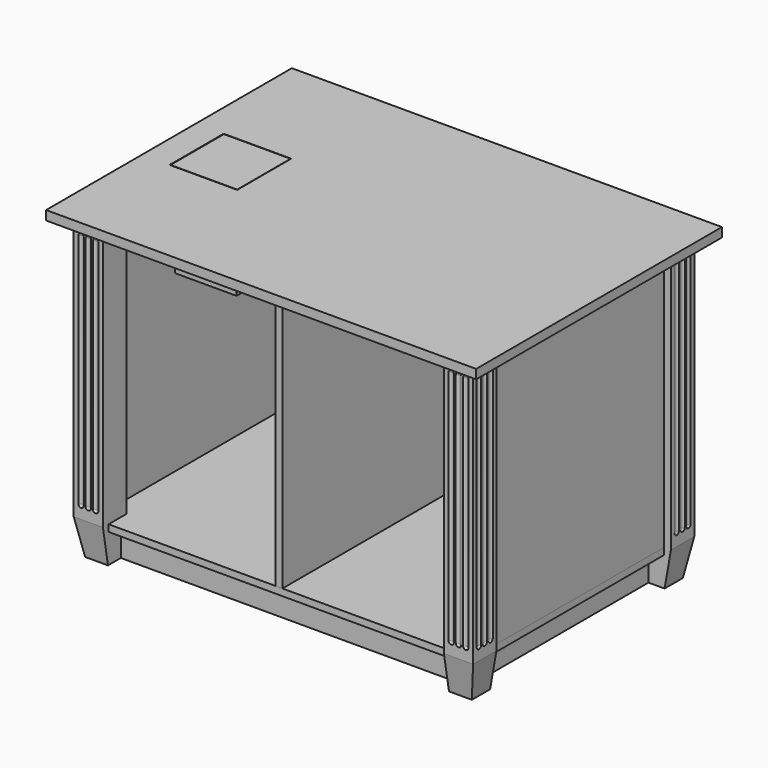
from build123d import *

# Parameters (mm, degrees)
F3_W           = 1400
F3_H           = 1000
F4_DEPTH       = 30
F5_W           = 95
F5_H           = 95
F6_DEPTH       = 970
F7_W           = 22
F7_H           = 95
F8_DEPTH       = 1110
F10_W          = 22
F10_H          = 95.0000000001
F11_DEPTH      = 710
F13_W          = 1254
F13_H          = 854
F14_DEPTH      = 22
F16_W          = 22
F16_H          = 852.9999999999
F17_DEPTH      = 710
F20_DEPTH      = 1350.001
F22_DEPTH      = 950.001
F31_ANGLE      = 90
F35_W          = 22
F35_H          = 852.9999999999
F36_DEPTH      = 427
F36_DEPTH_BACK = 427
F37_W          = 200
F37_H          = 200
F38_DEPTH      = 1000.001
F39_W          = 220
F39_H          = 220
F40_DEPTH      = 11
F41_W          = 200
F41_H          = 200
F42_DEPTH      = 300
F43_T          = -1
F44_W          = 218
F44_H          = 218
F44_W_2        = 198
F44_H_2        = 198
F45_DEPTH      = 1
F46_W          = 192
F46_H          = 192
F47_DEPTH      = 10
F48_W          = 217
F48_H          = 217
F49_DEPTH      = 10


with BuildPart() as f4:
    # F3 (on offset) → F4 (new body)
    with BuildSketch(Plane.XY.offset(1000)):
        Rectangle(F3_W, F3_H)
    extrude(amount=-F4_DEPTH)

    # F37 (on face) → F38 (cut, through all)
    with BuildSketch(Plane.XY.offset(1000)):
        with Locations((-500, 0)):
            Rectangle(F37_W, F37_H)
    extrude(amount=-F38_DEPTH, mode=Mode.SUBTRACT)

    # F39 (on face) → F40 (cut)
    with BuildSketch(Plane.XY.offset(1000)):
        with Locations((-500, 0)):
            Rectangle(F39_W, F39_H)
    extrude(amount=-F40_DEPTH, mode=Mode.SUBTRACT)


with BuildPart() as f6:
    # F5 (on Top) → F6 (new body, through all)
    with BuildSketch(Plane.XY):
        with Locations((-602.5, -402.5)):
            Rectangle(F5_W, F5_H)
    extrude(amount=F6_DEPTH)


with BuildPart() as f6b:
    # F5 (on Top) → F6, piece 2 (new body, through all)
    with BuildSketch(Plane.XY):
        with Locations((602.5, -402.5)):
            Rectangle(F5_W, F5_H)
    extrude(amount=F6_DEPTH)


with BuildPart() as f6c:
    # F5 (on Top) → F6, piece 3 (new body, through all)
    with BuildSketch(Plane.XY):
        with Locations((-602.5, 402.5)):
            Rectangle(F5_W, F5_H)
    extrude(amount=F6_DEPTH)


with BuildPart() as f6d:
    # F5 (on Top) → F6, piece 4 (new body, through all)
    with BuildSketch(Plane.XY):
        with Locations((602.5, 402.5)):
            Rectangle(F5_W, F5_H)
    extrude(amount=F6_DEPTH)


with BuildPart() as f8:
    # F7 (on face) → F8 (new body, through all)
    with BuildSketch(Plane.YZ.offset(-555)):
        with Locations((-366, 47.5)):
            Rectangle(F7_W, F7_H)
    extrude(amount=F8_DEPTH)


with BuildPart() as f9_1:
    # F9: instance of F8
    add(f8.part.mirror(Plane.XZ))


with BuildPart() as f11:
    # F10 (on face) → F11 (new body, through all)
    with BuildSketch(Plane(origin=(0, -355, 0), x_dir=(-1, 0, 0), z_dir=(0, 1, 0))):
        with Locations((-566, 47.5000000001)):
            Rectangle(F10_W, F10_H)
    extrude(amount=F11_DEPTH)


with BuildPart() as f12_1:
    # F12: instance of F11
    add(f11.part.mirror(Plane.YZ))


with BuildPart() as f14:
    # F13 (on face) → F14 (new body)
    with BuildSketch(Plane.XY.offset(95.0000000001)):
        Rectangle(F13_W, F13_H)
    extrude(amount=F14_DEPTH)

    # F15: cut F6d, F6b, F6, F6c
    add(f6d.part, mode=Mode.SUBTRACT)
    add(f6b.part, mode=Mode.SUBTRACT)
    add(f6.part, mode=Mode.SUBTRACT)
    add(f6c.part, mode=Mode.SUBTRACT)


with BuildPart() as f17:
    # F16 (on face) → F17 (new body, through all)
    with BuildSketch(Plane.XZ.offset(-355)):
        with Locations((-616, 543.5000000001)):
            Rectangle(F16_W, F16_H)
    extrude(amount=F17_DEPTH)


with BuildPart() as f18_1:
    # F18: instance of F17
    add(f17.part.mirror(Plane.YZ))


with BuildPart() as f20_tool:
    # F19 (on face) → F20 (new body, through all)
    with BuildSketch(Plane.YZ.offset(650)):
        Polygon((-424.7197430138, -26.371461841), (-450, 117.0000000001), (-510.232023478, -26.371461841), align=None)
        Polygon((573.8041042479, -58.4477885703), (450, 117.0000000001), (417.7592336329, -65.8464721481), align=None)
    extrude(amount=-F20_DEPTH)


with BuildPart() as f6_1:
    add(f6.part)

    # F20: cut by f20_tool
    add(f20_tool.part, mode=Mode.SUBTRACT)


with BuildPart() as f6b_1:
    add(f6b.part)

    # F20: cut by f20_tool
    add(f20_tool.part, mode=Mode.SUBTRACT)


with BuildPart() as f6c_1:
    add(f6c.part)

    # F20: cut by f20_tool
    add(f20_tool.part, mode=Mode.SUBTRACT)


with BuildPart() as f6d_1:
    add(f6d.part)

    # F20: cut by f20_tool
    add(f20_tool.part, mode=Mode.SUBTRACT)


with BuildPart() as f22_tool:
    # F21 (on face) → F22 (new body, through all)
    with BuildSketch(Plane(origin=(0, 450, 0), x_dir=(-1, 0, 0), z_dir=(0, 1, 0))):
        Polygon((-621.1144667896, -46.8179993462), (-650, 117.0000000001), (-744.3946939739, -46.8179993462), align=None)
        Polygon((784.7716985954, -119.4543197941), (650, 117.0000000001), (608.3067237152, -119.4543197941), align=None)
    extrude(amount=-F22_DEPTH)


with BuildPart() as f6_2:
    add(f6_1.part)

    # F22: cut by f22_tool
    add(f22_tool.part, mode=Mode.SUBTRACT)


with BuildPart() as f6b_2:
    add(f6b_1.part)

    # F22: cut by f22_tool
    add(f22_tool.part, mode=Mode.SUBTRACT)


with BuildPart() as f6c_2:
    add(f6c_1.part)

    # F22: cut by f22_tool
    add(f22_tool.part, mode=Mode.SUBTRACT)


with BuildPart() as f6d_2:
    add(f6d_1.part)

    # F22: cut by f22_tool
    add(f22_tool.part, mode=Mode.SUBTRACT)


with BuildPart() as f25:
    # F24 (on mid) → F25 (revolve)
    with BuildSketch(Plane(origin=(0, -402.5, 0), x_dir=(-1, 0, 0), z_dir=(0, 1, 0))):
        with BuildLine():
            ThreePointArc((-646, 928), (-649.5147186258, 936.4852813742), (-658, 940))
            Line((-658, 940), (-658, 147.0000000018))
            ThreePointArc((-658, 147.0000000018), (-649.5147186258, 150.5147186275), (-646, 159.0000000018))
            Line((-646, 159.0000000018), (-646, 928))
        make_face()
    revolve(axis=Axis((658, -402.5, 543.5000000009), (0, 0, -1)))


with BuildPart() as f26_1:
    # F26: copy of F25
    add(f25.part.moved(Location((0, 23.75, 0))))


with BuildPart() as f27_1:
    # F27: copy of F25
    add(f25.part.moved(Location((0, -23.75, 0))))


with BuildPart() as f28_1:
    # F28: instance of F27_1
    add(f27_1.part.mirror(Plane.XZ))


with BuildPart() as f28_2:
    # F28: instance of F25
    add(f25.part.mirror(Plane.XZ))


with BuildPart() as f28_3:
    # F28: instance of F26_1
    add(f26_1.part.mirror(Plane.XZ))


with BuildPart() as f29_1:
    # F29: instance of F27_1
    add(f27_1.part.mirror(Plane.YZ))


with BuildPart() as f29_2:
    # F29: instance of F25
    add(f25.part.mirror(Plane.YZ))


with BuildPart() as f29_3:
    # F29: instance of F26_1
    add(f26_1.part.mirror(Plane.YZ))


with BuildPart() as f29_4:
    # F29: instance of F28_3
    add(f28_3.part.mirror(Plane.YZ))


with BuildPart() as f29_5:
    # F29: instance of F28_2
    add(f28_2.part.mirror(Plane.YZ))


with BuildPart() as f29_6:
    # F29: instance of F28_1
    add(f28_1.part.mirror(Plane.YZ))


with BuildPart() as f31_1:
    # F31: copy of F27_1
    add(f27_1.part.rotate(Axis((602.5, -402.5, 462.0685577393), (0, 0, -1)), F31_ANGLE))


with BuildPart() as f31_2:
    # F31: copy of F25
    add(f25.part.rotate(Axis((602.5, -402.5, 462.0685577393), (0, 0, -1)), F31_ANGLE))


with BuildPart() as f31_3:
    # F31: copy of F26_1
    add(f26_1.part.rotate(Axis((602.5, -402.5, 462.0685577393), (0, 0, -1)), F31_ANGLE))


with BuildPart() as f32_1:
    # F32: instance of F31_1
    add(f31_1.part.mirror(Plane.YZ))


with BuildPart() as f32_2:
    # F32: instance of F31_2
    add(f31_2.part.mirror(Plane.YZ))


with BuildPart() as f32_3:
    # F32: instance of F31_3
    add(f31_3.part.mirror(Plane.YZ))


with BuildPart() as f33_1:
    # F33: instance of F32_3
    add(f32_3.part.mirror(Plane.XZ))


with BuildPart() as f33_2:
    # F33: instance of F32_2
    add(f32_2.part.mirror(Plane.XZ))


with BuildPart() as f33_3:
    # F33: instance of F32_1
    add(f32_1.part.mirror(Plane.XZ))


with BuildPart() as f33_4:
    # F33: instance of F31_1
    add(f31_1.part.mirror(Plane.XZ))


with BuildPart() as f33_5:
    # F33: instance of F31_2
    add(f31_2.part.mirror(Plane.XZ))


with BuildPart() as f33_6:
    # F33: instance of F31_3
    add(f31_3.part.mirror(Plane.XZ))


with BuildPart() as f6b_3:
    add(f6b_2.part)

    # F34: cut F32_3, F32_2, F32_1, F29_3, F29_2, F29_1, F29_6, F29_5, F29_4, F33_3, F33_2, F33_1, F33_6, F33_5, F33_4, F28_3, F28_2, F28_1, F27_1, F25, F26_1, F31_1, F31_2, F31_3
    add(f32_3.part, mode=Mode.SUBTRACT)
    add(f32_2.part, mode=Mode.SUBTRACT)
    add(f32_1.part, mode=Mode.SUBTRACT)
    add(f29_3.part, mode=Mode.SUBTRACT)
    add(f29_2.part, mode=Mode.SUBTRACT)
    add(f29_1.part, mode=Mode.SUBTRACT)
    add(f29_6.part, mode=Mode.SUBTRACT)
    add(f29_5.part, mode=Mode.SUBTRACT)
    add(f29_4.part, mode=Mode.SUBTRACT)
    add(f33_3.part, mode=Mode.SUBTRACT)
    add(f33_2.part, mode=Mode.SUBTRACT)
    add(f33_1.part, mode=Mode.SUBTRACT)
    add(f33_6.part, mode=Mode.SUBTRACT)
    add(f33_5.part, mode=Mode.SUBTRACT)
    add(f33_4.part, mode=Mode.SUBTRACT)
    add(f28_3.part, mode=Mode.SUBTRACT)
    add(f28_2.part, mode=Mode.SUBTRACT)
    add(f28_1.part, mode=Mode.SUBTRACT)
    add(f27_1.part, mode=Mode.SUBTRACT)
    add(f25.part, mode=Mode.SUBTRACT)
    add(f26_1.part, mode=Mode.SUBTRACT)
    add(f31_1.part, mode=Mode.SUBTRACT)
    add(f31_2.part, mode=Mode.SUBTRACT)
    add(f31_3.part, mode=Mode.SUBTRACT)


with BuildPart() as f6d_3:
    add(f6d_2.part)

    # F34: cut F32_3, F32_2, F32_1, F29_3, F29_2, F29_1, F29_6, F29_5, F29_4, F33_3, F33_2, F33_1, F33_6, F33_5, F33_4, F28_3, F28_2, F28_1, F27_1, F25, F26_1, F31_1, F31_2, F31_3
    add(f32_3.part, mode=Mode.SUBTRACT)
    add(f32_2.part, mode=Mode.SUBTRACT)
    add(f32_1.part, mode=Mode.SUBTRACT)
    add(f29_3.part, mode=Mode.SUBTRACT)
    add(f29_2.part, mode=Mode.SUBTRACT)
    add(f29_1.part, mode=Mode.SUBTRACT)
    add(f29_6.part, mode=Mode.SUBTRACT)
    add(f29_5.part, mode=Mode.SUBTRACT)
    add(f29_4.part, mode=Mode.SUBTRACT)
    add(f33_3.part, mode=Mode.SUBTRACT)
    add(f33_2.part, mode=Mode.SUBTRACT)
    add(f33_1.part, mode=Mode.SUBTRACT)
    add(f33_6.part, mode=Mode.SUBTRACT)
    add(f33_5.part, mode=Mode.SUBTRACT)
    add(f33_4.part, mode=Mode.SUBTRACT)
    add(f28_3.part, mode=Mode.SUBTRACT)
    add(f28_2.part, mode=Mode.SUBTRACT)
    add(f28_1.part, mode=Mode.SUBTRACT)
    add(f27_1.part, mode=Mode.SUBTRACT)
    add(f25.part, mode=Mode.SUBTRACT)
    add(f26_1.part, mode=Mode.SUBTRACT)
    add(f31_1.part, mode=Mode.SUBTRACT)
    add(f31_2.part, mode=Mode.SUBTRACT)
    add(f31_3.part, mode=Mode.SUBTRACT)


with BuildPart() as f6c_3:
    add(f6c_2.part)

    # F34: cut F32_3, F32_2, F32_1, F29_3, F29_2, F29_1, F29_6, F29_5, F29_4, F33_3, F33_2, F33_1, F33_6, F33_5, F33_4, F28_3, F28_2, F28_1, F27_1, F25, F26_1, F31_1, F31_2, F31_3
    add(f32_3.part, mode=Mode.SUBTRACT)
    add(f32_2.part, mode=Mode.SUBTRACT)
    add(f32_1.part, mode=Mode.SUBTRACT)
    add(f29_3.part, mode=Mode.SUBTRACT)
    add(f29_2.part, mode=Mode.SUBTRACT)
    add(f29_1.part, mode=Mode.SUBTRACT)
    add(f29_6.part, mode=Mode.SUBTRACT)
    add(f29_5.part, mode=Mode.SUBTRACT)
    add(f29_4.part, mode=Mode.SUBTRACT)
    add(f33_3.part, mode=Mode.SUBTRACT)
    add(f33_2.part, mode=Mode.SUBTRACT)
    add(f33_1.part, mode=Mode.SUBTRACT)
    add(f33_6.part, mode=Mode.SUBTRACT)
    add(f33_5.part, mode=Mode.SUBTRACT)
    add(f33_4.part, mode=Mode.SUBTRACT)
    add(f28_3.part, mode=Mode.SUBTRACT)
    add(f28_2.part, mode=Mode.SUBTRACT)
    add(f28_1.part, mode=Mode.SUBTRACT)
    add(f27_1.part, mode=Mode.SUBTRACT)
    add(f25.part, mode=Mode.SUBTRACT)
    add(f26_1.part, mode=Mode.SUBTRACT)
    add(f31_1.part, mode=Mode.SUBTRACT)
    add(f31_2.part, mode=Mode.SUBTRACT)
    add(f31_3.part, mode=Mode.SUBTRACT)


with BuildPart() as f6_3:
    add(f6_2.part)

    # F34: cut F32_3, F32_2, F32_1, F29_3, F29_2, F29_1, F29_6, F29_5, F29_4, F33_3, F33_2, F33_1, F33_6, F33_5, F33_4, F28_3, F28_2, F28_1, F27_1, F25, F26_1, F31_1, F31_2, F31_3
    add(f32_3.part, mode=Mode.SUBTRACT)
    add(f32_2.part, mode=Mode.SUBTRACT)
    add(f32_1.part, mode=Mode.SUBTRACT)
    add(f29_3.part, mode=Mode.SUBTRACT)
    add(f29_2.part, mode=Mode.SUBTRACT)
    add(f29_1.part, mode=Mode.SUBTRACT)
    add(f29_6.part, mode=Mode.SUBTRACT)
    add(f29_5.part, mode=Mode.SUBTRACT)
    add(f29_4.part, mode=Mode.SUBTRACT)
    add(f33_3.part, mode=Mode.SUBTRACT)
    add(f33_2.part, mode=Mode.SUBTRACT)
    add(f33_1.part, mode=Mode.SUBTRACT)
    add(f33_6.part, mode=Mode.SUBTRACT)
    add(f33_5.part, mode=Mode.SUBTRACT)
    add(f33_4.part, mode=Mode.SUBTRACT)
    add(f28_3.part, mode=Mode.SUBTRACT)
    add(f28_2.part, mode=Mode.SUBTRACT)
    add(f28_1.part, mode=Mode.SUBTRACT)
    add(f27_1.part, mode=Mode.SUBTRACT)
    add(f25.part, mode=Mode.SUBTRACT)
    add(f26_1.part, mode=Mode.SUBTRACT)
    add(f31_1.part, mode=Mode.SUBTRACT)
    add(f31_2.part, mode=Mode.SUBTRACT)
    add(f31_3.part, mode=Mode.SUBTRACT)


with BuildPart() as f36:
    # F35 (on Front) → F36 (new body, two sides)
    with BuildSketch(Plane.XZ) as f36_sk:
        with Locations((0, 543.5000000001)):
            Rectangle(F35_W, F35_H)
    extrude(amount=-F36_DEPTH)
    extrude(f36_sk.sketch, amount=F36_DEPTH_BACK)


with BuildPart() as f42:
    # F41 (on face) → F42 (new body)
    with BuildSketch(Plane.XY.offset(989)):
        with Locations((-500, 0)):
            Rectangle(F41_W, F41_H)
    extrude(amount=-F42_DEPTH)

    # F43
    f43_openings = [f42.faces().sort_by_distance(p)[0] for p in [
        (-500, 0, 989),
    ]]
    offset(amount=F43_T, openings=f43_openings)

    # F44 (on face) → F45 (join)
    with BuildSketch(Plane.XY.offset(989)):
        with Locations((-500, 0)):
            Rectangle(F44_W, F44_H)
        with Locations((-500, 0)):
            Rectangle(F44_W_2, F44_H_2, mode=Mode.SUBTRACT)
    extrude(amount=F45_DEPTH)


with BuildPart() as f47:
    # F46 (on face) → F47 (new body)
    with BuildSketch(Plane.XY.offset(990)):
        with Locations((-500, 0)):
            Rectangle(F46_W, F46_H)
    extrude(amount=-F47_DEPTH)

    # F48 (on face) → F49 (join)
    with BuildSketch(Plane.XY.offset(990)):
        with Locations((-499.5, 0)):
            Rectangle(F48_W, F48_H)
    extrude(amount=F49_DEPTH)


solid = Compound([f4.part, f8.part, f9_1.part, f11.part, f12_1.part, f14.part, f17.part, f18_1.part, f6b_3.part, f6d_3.part, f6c_3.part, f6_3.part, f36.part, f42.part, f47.part])
